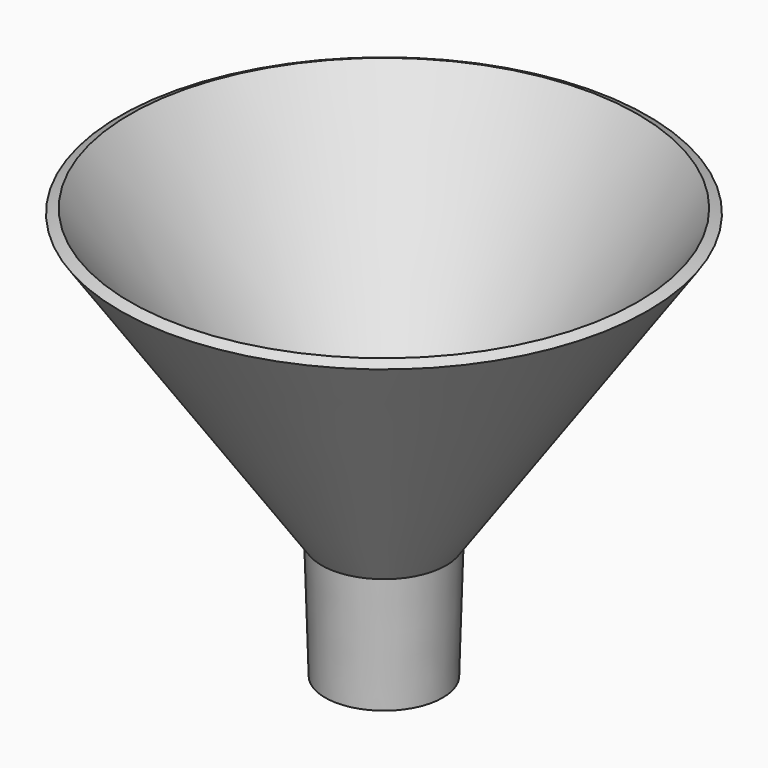
from build123d import *

# Parameters (mm, degrees)
F2_R     = 11.150634
F3_DEPTH = 25.4


with BuildPart() as f1:
    # F0 (on Front) → F1 (revolve)
    with BuildSketch(Plane.XZ):
        Polygon((-13.451746, -4.29259), (-13.451746, -29.69259), (-0.751746, -29.69259), (0, -4.303717), align=None)
        Polygon((-1.760611, -2.738729), (0, -4.303717), (43.534535, 58.235745), (41.384326, 59.241057), align=None)
    revolve(axis=Axis((-13.451746, 0, -16.99259), (0, 0, 1)))

    # F2 (on face) → F3 (cut)
    with BuildSketch(Plane(origin=(0, 0, -29.69259), x_dir=(1, 0, 0), z_dir=(0, 0, -1))):
        with Locations((-13.451746, 0)):
            Circle(F2_R)
    extrude(amount=-F3_DEPTH, mode=Mode.SUBTRACT)


solid = f1.part
